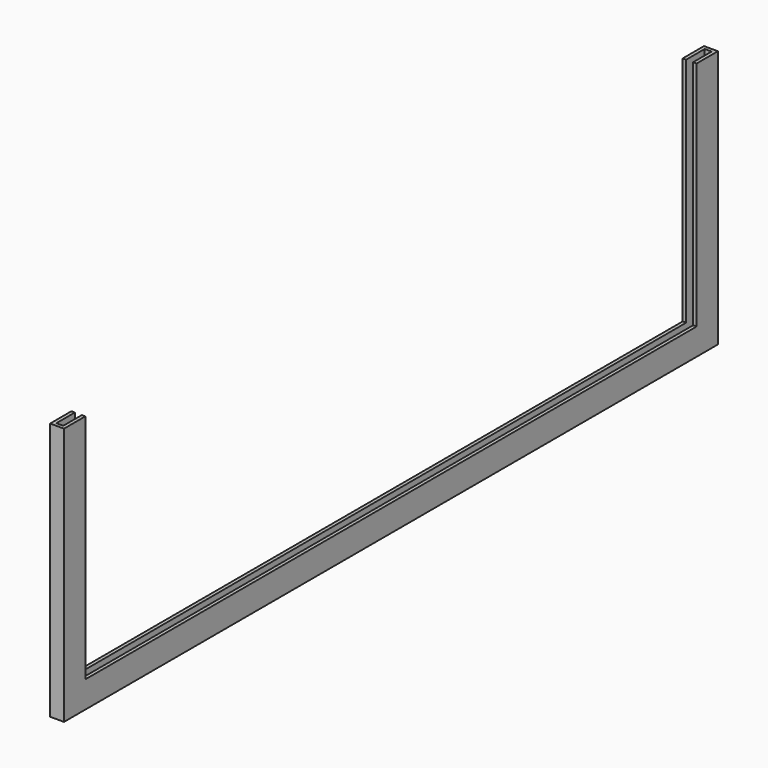
from build123d import *

# Parameters (mm, degrees)
F0_W     = 6
F0_H     = 353
F1_DEPTH = 1.5
F2_W     = 6
F2_H     = 353
F2_W_2   = 3
F2_H_2   = 350
F3_DEPTH = 10
F5_DEPTH = 100
F6_W     = 228.872508
F6_H     = 47.288619
F7_DEPTH = 25


with BuildPart() as f1:
    # F0 (on Top) → F1 (new body)
    with BuildSketch(Plane.XY):
        Rectangle(F0_W, F0_H)
    extrude(amount=F1_DEPTH)

    # F2 (on face) → F3 (join)
    with BuildSketch(Plane.XY.offset(1.5)):
        Rectangle(F2_W, F2_H)
        Rectangle(F2_W_2, F2_H_2, mode=Mode.SUBTRACT)
    extrude(amount=F3_DEPTH)

    # F4 (on face) → F5 (join)
    with BuildSketch(Plane.XY.offset(11.5)):
        Polygon((1.5, -175), (-1.5, -175), (-1.5, -165), (-3, -165), (-3, -176.5), (3, -176.5), (3, -165), (1.5, -165), align=None)
    extrude(amount=F5_DEPTH)

    # F6 (on face) → F7 (cut)
    with BuildSketch(Plane.YZ.offset(3)):
        with Locations((114.436254, 23.644309)):
            Rectangle(F6_W, F6_H)
    extrude(amount=-F7_DEPTH, mode=Mode.SUBTRACT)

    # F8: F1 across plane


with BuildPart() as f1_1:
    add(f1.part)
    add(f1.part.mirror(Plane.XZ))


solid = f1_1.part
